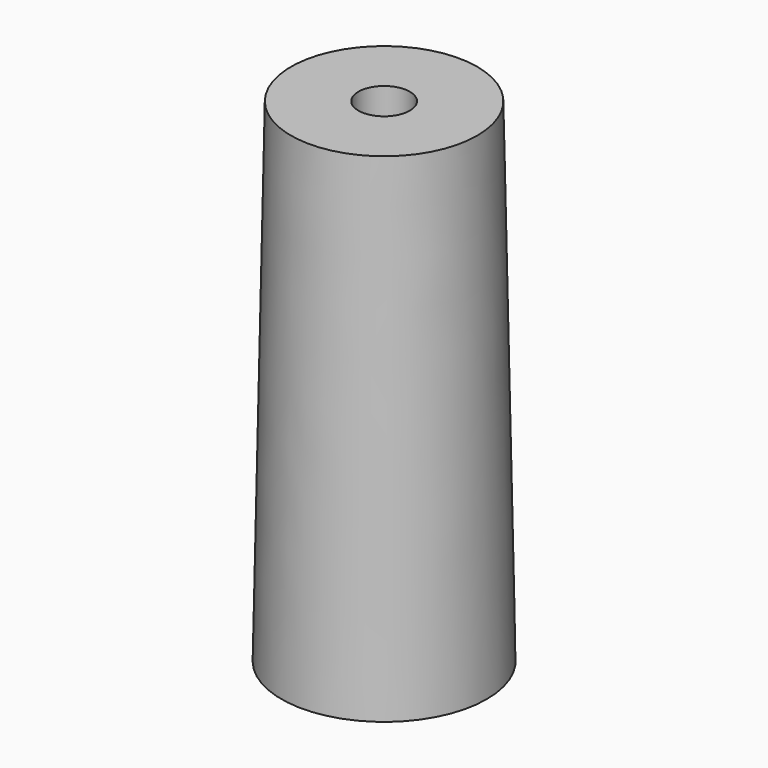
from build123d import *

# Parameters (mm, degrees)
F2_R = 14.7379141784
F0_R = 16.2416585403
F4_D = 8.128


with BuildPart() as f3:
    # F2 (on offset) → F3 section 0
    with BuildSketch(Plane.XY.offset(77.978)):
        Circle(F2_R)
    # F0 (on Top) → F3 section 1
    with BuildSketch(Plane.XY):
        Circle(F0_R)
    loft()

    # F4 (through all)
    with Locations(Plane(origin=(0, 0, 0), x_dir=(1, 0, 0), z_dir=(0, 0, -1))):
        with Locations((0, 0)):
            Hole(F4_D / 2)


solid = f3.part
